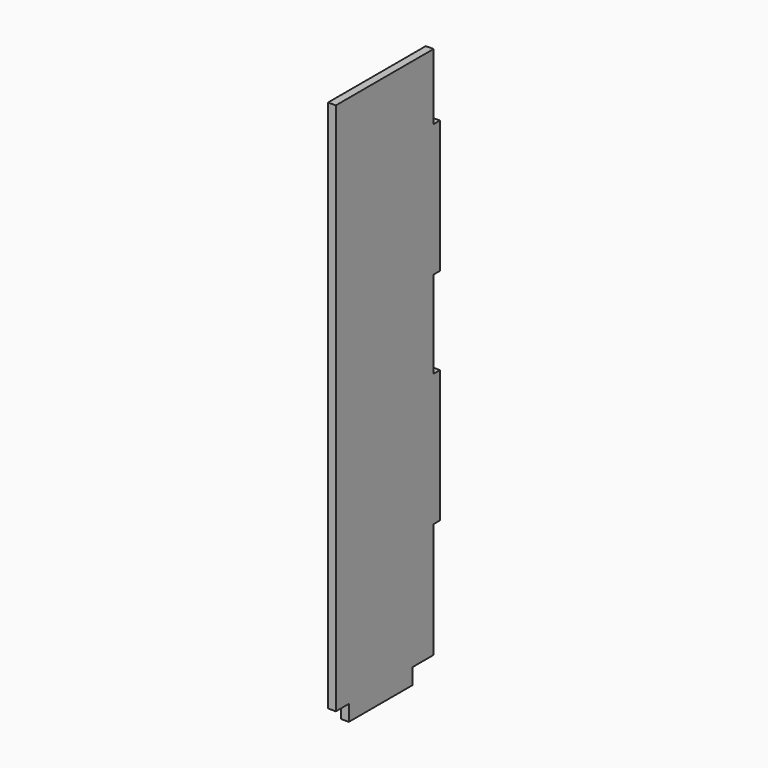
from build123d import *

# Parameters (mm, degrees)
F1_DEPTH = 2.95


with BuildPart() as f1:
    # F0 (on Right) → F1 (new body)
    with BuildSketch(Plane.YZ):
        Polygon((0, 209.551629), (0, 8.051629), (6.125, 8.051629), (6.125, 2.051629), (36.125, 2.051629), (36.125, 8.051629), (46.125, 8.051629), (46.125, 51.551629), (49.125, 51.551629), (49.125, 101.551629), (46.125, 101.551629), (46.125, 134.551629), (49.125, 134.551629), (49.125, 184.551629), (46.125, 184.551629), (46.125, 209.551629), align=None)
    extrude(amount=F1_DEPTH)


solid = f1.part
